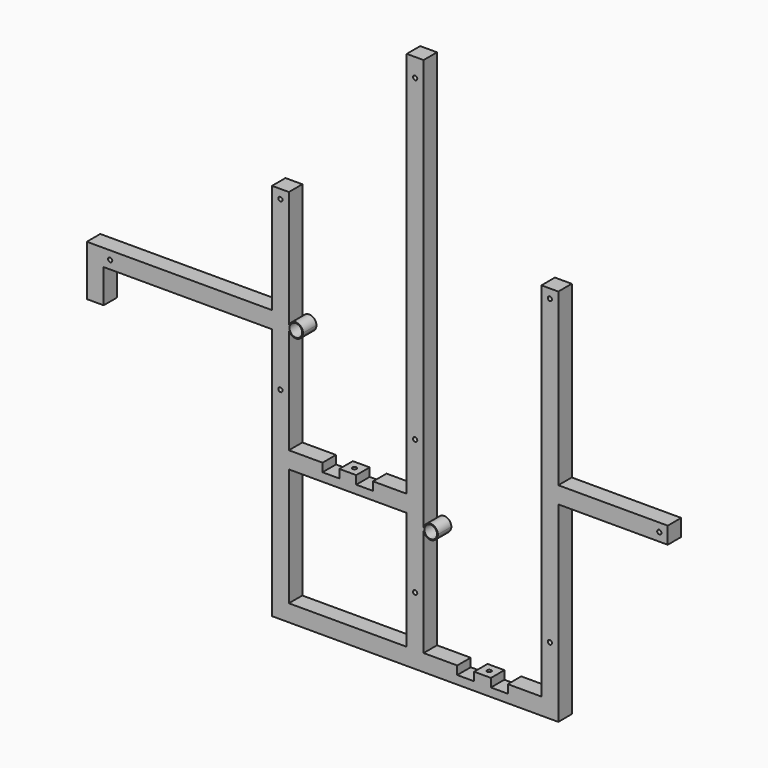
from build123d import *

# Parameters (mm, degrees)
F0_W     = 254
F0_H     = 25.4
F0_R     = 3.175
F0_W_2   = 25.4
F0_H_2   = 165.1
F0_R_2   = 9.525
F0_W_3   = 165.1
F0_H_3   = 406.4
F1_DEPTH = 25.4
F2_R     = 3.175
F3_DEPTH = 25.4
F4_R     = 3.175
F5_DEPTH = 25.4


with BuildPart() as f1:
    # F0 (on Front) → F1 (new body)
    with BuildSketch(Plane.XZ):
        Rectangle(F0_W, F0_H)
        with Locations((-117.1332279196, 0)):
            Circle(F0_R, mode=Mode.SUBTRACT)
        with BuildLine():
            Line((127, 12.7), (127, -12.7))
            Line((127, -12.7), (127, -393.7))
            Line((127, -393.7), (152.4, -393.7))
            Line((152.4, -393.7), (152.4, -368.3))
            Line((152.4, -368.3), (152.4, -190.5))
            Line((152.4, -190.5), (152.4, -165.1))
            Line((152.4, -165.1), (152.4, -4.9948786037))
            ThreePointArc((152.4, -4.9948786037), (152.1071341609, -2.4974393018), (152.4, 0))
            Line((152.4, 0), (152.4, 12.7))
            Line((152.4, 12.7), (127, 12.7))
        make_face()
        with Locations((139.7, -88.9)):
            Circle(F0_R, mode=Mode.SUBTRACT)
        Polygon((-127, -63.5), (-127, -12.7), (-127, 12.7), (-152.4, 12.7), (-152.4, -63.5), align=None)
        with Locations((139.7, 95.25)):
            Rectangle(F0_W_2, F0_H_2)
        with Locations((139.7, 164.1332782722)):
            Circle(F0_R, mode=Mode.SUBTRACT)
        Polygon((152.4, -368.3), (152.4, -393.7), (533.4, -393.7), (533.4, -368.3), (482.6, -368.3), (482.6, -381), (457.2, -381), (457.2, -368.3), (431.8, -368.3), (431.8, -381), (406.4, -381), (406.4, -368.3), (355.6, -368.3), (330.2, -368.3), align=None)
        with BuildLine():
            ThreePointArc((173.6971341609, -2.4974393018), (164.1594103305, 8.2240942467), (152.4, 0))
            Line((152.4, 0), (152.4, -4.9948786037))
            ThreePointArc((152.4, -4.9948786037), (164.1594103305, -13.2189728504), (173.6971341609, -2.4974393018))
        make_face()
        with Locations((162.9021341609, -2.4974393018)):
            Circle(F0_R_2, mode=Mode.SUBTRACT)
        with BuildLine():
            Line((152.4, -4.9948786037), (152.4, 0))
            ThreePointArc((152.4, 0), (152.1071341609, -2.4974393018), (152.4, -4.9948786037))
        make_face()
        Polygon((533.4, -368.3), (533.4, -393.7), (558.8, -393.7), (558.8, -190.5), (533.4, -190.5), align=None)
        with Locations((546.1, -292.1)):
            Circle(F0_R, mode=Mode.SUBTRACT)
        Polygon((152.4, -165.1), (152.4, -190.5), (330.2, -190.5), (330.2, -165.1), (279.4, -165.1), (279.4, -177.8), (254, -177.8), (254, -165.1), (228.6, -165.1), (228.6, -177.8), (203.2, -177.8), (203.2, -165.1), align=None)
        with BuildLine():
            Line((330.2, -190.5), (330.2, -368.3))
            Line((330.2, -368.3), (355.6, -368.3))
            Line((355.6, -368.3), (355.6, -204.6195841637))
            ThreePointArc((355.6, -204.6195841637), (355.5766396245, -203.9097920819), (355.6, -203.2))
            Line((355.6, -203.2), (355.6, 12.7))
            Line((355.6, 12.7), (330.2, 12.7))
            Line((330.2, 12.7), (330.2, -165.1))
            Line((330.2, -165.1), (330.2, -190.5))
        make_face()
        with Locations((342.9, -292.1)):
            Circle(F0_R, mode=Mode.SUBTRACT)
        with Locations((342.9, -88.9)):
            Circle(F0_R, mode=Mode.SUBTRACT)
        Polygon((533.4, 177.8), (533.4, -190.5), (558.8, -190.5), (558.8, -104.779582451), (558.8, -79.379582451), (558.8, 177.8), align=None)
        with Locations((546.1, 164.1332782722)):
            Circle(F0_R, mode=Mode.SUBTRACT)
        with BuildLine():
            ThreePointArc((355.6, -203.2), (355.5766396245, -203.9097920819), (355.6, -204.6195841637))
            Line((355.6, -204.6195841637), (355.6, -203.2))
        make_face()
        with BuildLine():
            Line((355.6, -203.2), (355.6, -204.6195841637))
            ThreePointArc((355.6, -204.6195841637), (366.7267278201, -214.6989504074), (377.1666396245, -203.9097920819))
            ThreePointArc((377.1666396245, -203.9097920819), (366.7267278201, -193.1206337563), (355.6, -203.2))
        make_face()
        with Locations((366.3716396245, -203.9097920819)):
            Circle(F0_R_2, mode=Mode.SUBTRACT)
        with Locations((641.35, -92.079582451)):
            Rectangle(F0_W_3, F0_H)
        with Locations((711.2, -92.079582451)):
            Circle(F0_R, mode=Mode.SUBTRACT)
        with Locations((342.9, 215.9)):
            Rectangle(F0_W_2, F0_H_3)
        with Locations((342.9, 391.3177847862)):
            Circle(F0_R, mode=Mode.SUBTRACT)
    extrude(amount=F1_DEPTH)

    # F2 (on face) → F3 (cut)
    with BuildSketch(Plane.XY.offset(-165.1)):
        with Locations((241.3, -12.7)):
            Circle(F2_R)
    extrude(amount=-F3_DEPTH, mode=Mode.SUBTRACT)

    # F4 (on face) → F5 (cut)
    with BuildSketch(Plane.XY.offset(-368.3)):
        with Locations((444.5, -12.7)):
            Circle(F4_R)
    extrude(amount=-F5_DEPTH, mode=Mode.SUBTRACT)


solid = f1.part
